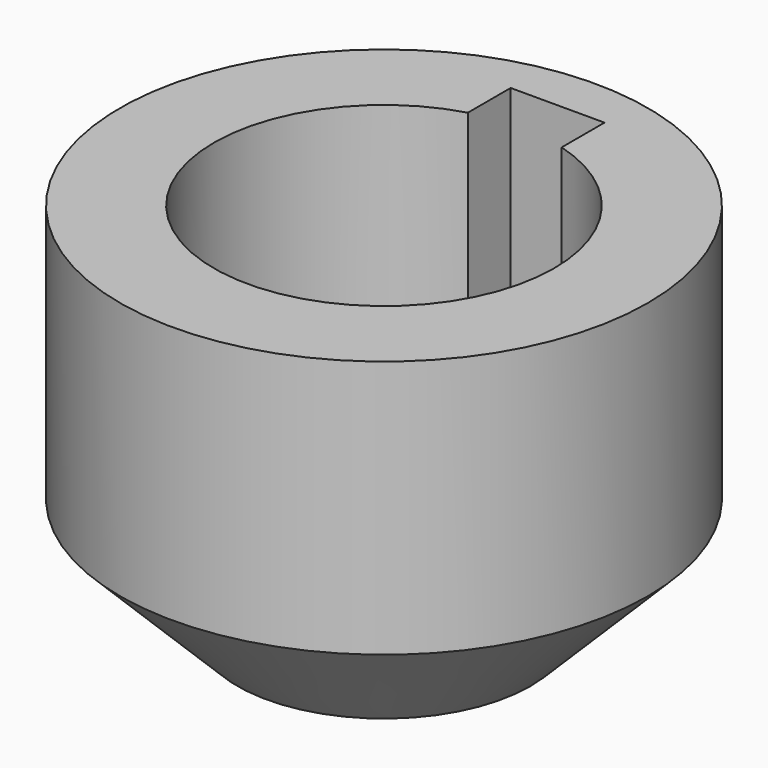
from build123d import *

# Parameters (mm, degrees)
F0_R     = 5.625
F1_DEPTH = 8
F2_DEPTH = 2
F3_SIZE  = 2.5


with BuildPart() as f1:
    # F0 (on Top) → F1 (new body)
    with BuildSketch(Plane.XY):
        Circle(F0_R)
        with BuildLine():
            ThreePointArc((1, 3.48434), (2.895309, 2.181241), (3.625, 0))
            ThreePointArc((3.625, 0), (-2.181241, -2.895309), (-1, 3.48434))
            Line((-1, 3.48434), (-1, 4.625))
            Line((-1, 4.625), (1, 4.625))
            Line((1, 4.625), (1, 3.48434))
        make_face(mode=Mode.SUBTRACT)
    extrude(amount=F1_DEPTH)

    # F0 (on Top) → F2 (join)
    with BuildSketch(Plane.XY):
        with BuildLine():
            ThreePointArc((-1, 3.48434), (-2.181241, -2.895309), (3.625, 0))
            ThreePointArc((3.625, 0), (2.895309, 2.181241), (1, 3.48434))
            Line((1, 3.48434), (1, 2.625))
            Line((1, 2.625), (-1, 2.625))
            Line((-1, 2.625), (-1, 3.48434))
        make_face()
        with BuildLine():
            ThreePointArc((-1, 3.48434), (0, 3.625), (1, 3.48434))
            Line((1, 3.48434), (1, 4.625))
            Line((1, 4.625), (-1, 4.625))
            Line((-1, 4.625), (-1, 3.48434))
        make_face()
        with BuildLine():
            Line((1, 2.625), (1, 3.48434))
            ThreePointArc((1, 3.48434), (0, 3.625), (-1, 3.48434))
            Line((-1, 3.48434), (-1, 2.625))
            Line((-1, 2.625), (1, 2.625))
        make_face()
    extrude(amount=F2_DEPTH)

    # F3
    f3_edges = [f1.edges().sort_by_distance(p)[0] for p in [
        (-5.625, 0, 0),
    ]]
    chamfer(f3_edges, length=F3_SIZE)


solid = f1.part
